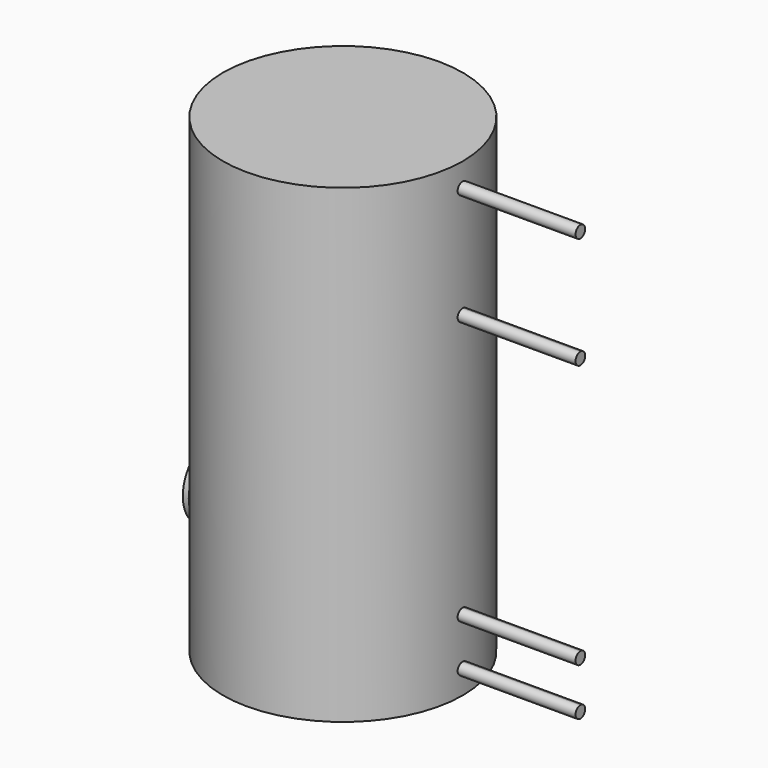
from build123d import *

# Parameters (mm, degrees)
F0_R      = 505
F0_W      = 40
F0_H      = 40
F1_DEPTH  = 1980
F3_DEPTH  = 1000
F4_W      = 40
F4_H      = 40
F5_DEPTH  = 20
F6_R      = 505
F7_DEPTH  = 0.1
F8_R      = 128.1725692129
F9_DEPTH  = 522
F10_R     = 158.8630507831
F10_R_2   = 128.1725692129
F11_DEPTH = 25


with BuildPart() as f1:
    # F0 (on Top) → F1 (new body)
    with BuildSketch(Plane.XY):
        Circle(F0_R)
        with Locations((187.6388374866, -325)):
            Rectangle(F0_W, F0_H, mode=Mode.SUBTRACT)
        with Locations((-375.2776749733, 0)):
            Rectangle(F0_W, F0_H, mode=Mode.SUBTRACT)
        with Locations((187.6388374866, 325)):
            Rectangle(F0_W, F0_H, mode=Mode.SUBTRACT)
    extrude(amount=F1_DEPTH)

    # F6 (on face) → F7 (join)
    with BuildSketch(Plane.XY.offset(1980)):
        Circle(F6_R)
    extrude(amount=F7_DEPTH)


with BuildPart() as f3:
    # F2 (on Right) → F3 (new body)
    with BuildSketch(Plane.YZ):
        with BuildLine():
            ThreePointArc((0, 125.4), (-25.4, 100), (0, 74.6))
            Line((0, 74.6), (0, 100))
            Line((0, 100), (0, 125.4))
        make_face()
        with BuildLine():
            Line((0, 100), (0, 74.6))
            ThreePointArc((0, 74.6), (17.9605122421, 82.0394877579), (25.4, 100))
            ThreePointArc((25.4, 100), (17.9605122421, 117.9605122421), (0, 125.4))
            Line((0, 125.4), (0, 100))
        make_face()
    extrude(amount=F3_DEPTH)


with BuildPart() as f3b:
    # F2 (on Right) → F3, piece 2 (new body)
    with BuildSketch(Plane.YZ):
        with BuildLine():
            ThreePointArc((0, 325.4), (-25.4, 300), (0, 274.6))
            Line((0, 274.6), (0, 300))
            Line((0, 300), (0, 325.4))
        make_face()
        with BuildLine():
            Line((0, 300), (0, 274.6))
            ThreePointArc((0, 274.6), (17.9605122421, 282.0394877579), (25.4, 300))
            ThreePointArc((25.4, 300), (17.9605122421, 317.9605122421), (0, 325.4))
            Line((0, 325.4), (0, 300))
        make_face()
    extrude(amount=F3_DEPTH)


with BuildPart() as f3c:
    # F2 (on Right) → F3, piece 3 (new body)
    with BuildSketch(Plane.YZ):
        with BuildLine():
            ThreePointArc((0, 1435.4), (-25.4, 1410), (0, 1384.6))
            Line((0, 1384.6), (0, 1410))
            Line((0, 1410), (0, 1435.4))
        make_face()
        with BuildLine():
            Line((0, 1410), (0, 1384.6))
            ThreePointArc((0, 1384.6), (17.9605122421, 1392.0394877579), (25.4, 1410))
            ThreePointArc((25.4, 1410), (17.9605122421, 1427.9605122421), (0, 1435.4))
            Line((0, 1435.4), (0, 1410))
        make_face()
    extrude(amount=F3_DEPTH)


with BuildPart() as f3d:
    # F2 (on Right) → F3, piece 4 (new body)
    with BuildSketch(Plane.YZ):
        with BuildLine():
            ThreePointArc((25.4, 1880), (-17.9605122421, 1897.9605122421), (0, 1854.6))
            ThreePointArc((0, 1854.6), (17.9605122421, 1862.0394877579), (25.4, 1880))
        make_face()
    extrude(amount=F3_DEPTH)


with BuildPart() as f5:
    # F4 (on face) → F5 (new body)
    with BuildSketch(Plane(origin=(0, 0, 0), x_dir=(1, 0, 0), z_dir=(0, 0, -1))):
        with Locations((187.6388374866, 325)):
            Rectangle(F4_W, F4_H)
    extrude(amount=F5_DEPTH)


with BuildPart() as f5b:
    # F4 (on face) → F5, piece 2 (new body)
    with BuildSketch(Plane(origin=(0, 0, 0), x_dir=(1, 0, 0), z_dir=(0, 0, -1))):
        with Locations((-375.2776749733, 0)):
            Rectangle(F4_W, F4_H)
    extrude(amount=F5_DEPTH)


with BuildPart() as f5c:
    # F4 (on face) → F5, piece 3 (new body)
    with BuildSketch(Plane(origin=(0, 0, 0), x_dir=(1, 0, 0), z_dir=(0, 0, -1))):
        with Locations((187.6388374866, -325)):
            Rectangle(F4_W, F4_H)
    extrude(amount=F5_DEPTH)


with BuildPart() as f9:
    # F8 (on Right) → F9 (new body)
    with BuildSketch(Plane.YZ):
        with Locations((0, 461.208999157)):
            Circle(F8_R)
    extrude(amount=-F9_DEPTH)


with BuildPart() as f11:
    # F10 (on face) → F11 (new body)
    with BuildSketch(Plane(origin=(-522, 0, 0), x_dir=(0, -1, 0), z_dir=(-1, 0, 0))):
        with Locations((0, 461.208999157)):
            Circle(F10_R)
        with Locations((0, 461.208999157)):
            Circle(F10_R_2, mode=Mode.SUBTRACT)
    extrude(amount=F11_DEPTH)


solid = Compound([f1.part, f3.part, f3b.part, f3c.part, f3d.part, f5.part, f5b.part, f5c.part, f9.part, f11.part])
